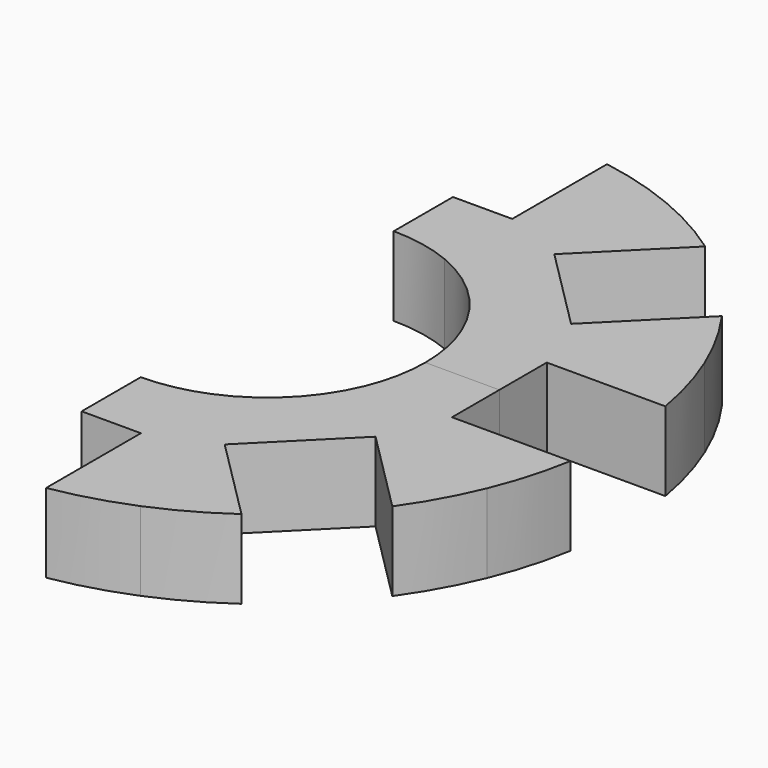
from build123d import *

# Parameters (mm, degrees)
F1_DEPTH = 12.7
F3_DEPTH = 12.7
F4_COUNT = 2
F4_ANGLE = 90


with BuildPart() as f1:
    # F0 (on Top) → F1 (new body)
    with BuildSketch(Plane.XY):
        with BuildLine():
            Line((9.720159, 23.46654), (21.870358, 52.799715))
            ThreePointArc((21.870358, 52.799715), (15.797767, 54.923156), (9.525, 56.35066))
            Line((9.525, 56.35066), (9.525, 37.30066))
            Line((9.525, 37.30066), (0, 37.30066))
            Line((0, 37.30066), (0, 25.4))
            ThreePointArc((0, 25.4), (4.955294, 24.911946), (9.720159, 23.46654))
        make_face()
    extrude(amount=-F1_DEPTH)

    # F0 (on Top) → F3 (join)
    with BuildSketch(Plane.XY):
        with BuildLine():
            Line((9.720159, 23.46654), (21.870358, 52.799715))
            ThreePointArc((21.870358, 52.799715), (15.797767, 54.923156), (9.525, 56.35066))
            Line((9.525, 56.35066), (9.525, 37.30066))
            Line((9.525, 37.30066), (0, 37.30066))
            Line((0, 37.30066), (0, 25.4))
            ThreePointArc((0, 25.4), (4.955294, 24.911946), (9.720159, 23.46654))
        make_face()
        with BuildLine():
            ThreePointArc((33.110742, 46.581126), (27.665828, 50.007244), (21.870358, 52.799715))
            Line((21.870358, 52.799715), (9.720159, 23.46654))
            ThreePointArc((9.720159, 23.46654), (17.960512, 17.960512), (23.46654, 9.720159))
            Line((23.46654, 9.720159), (52.799715, 21.870358))
            ThreePointArc((52.799715, 21.870358), (50.007244, 27.665828), (46.581126, 33.110742))
            Line((46.581126, 33.110742), (33.110742, 19.640357))
            Line((33.110742, 19.640357), (19.640357, 33.110742))
            Line((19.640357, 33.110742), (33.110742, 46.581126))
        make_face()
        with BuildLine():
            Line((52.799715, 21.870358), (23.46654, 9.720159))
            ThreePointArc((23.46654, 9.720159), (24.911946, 4.955294), (25.4, 0))
            Line((25.4, 0), (37.30066, 0))
            Line((37.30066, 0), (37.30066, 9.525))
            Line((37.30066, 9.525), (56.35066, 9.525))
            ThreePointArc((56.35066, 9.525), (54.923156, 15.797767), (52.799715, 21.870358))
        make_face()
    extrude(amount=-F3_DEPTH)


with BuildPart() as f4_1:
    # F4: instance of F1
    add(f1.part.rotate(Axis((0, 0, -23.629684), (0, 0, -1)), 1 * F4_ANGLE / (F4_COUNT - 1)))


solid = Compound([f1.part, f4_1.part])
